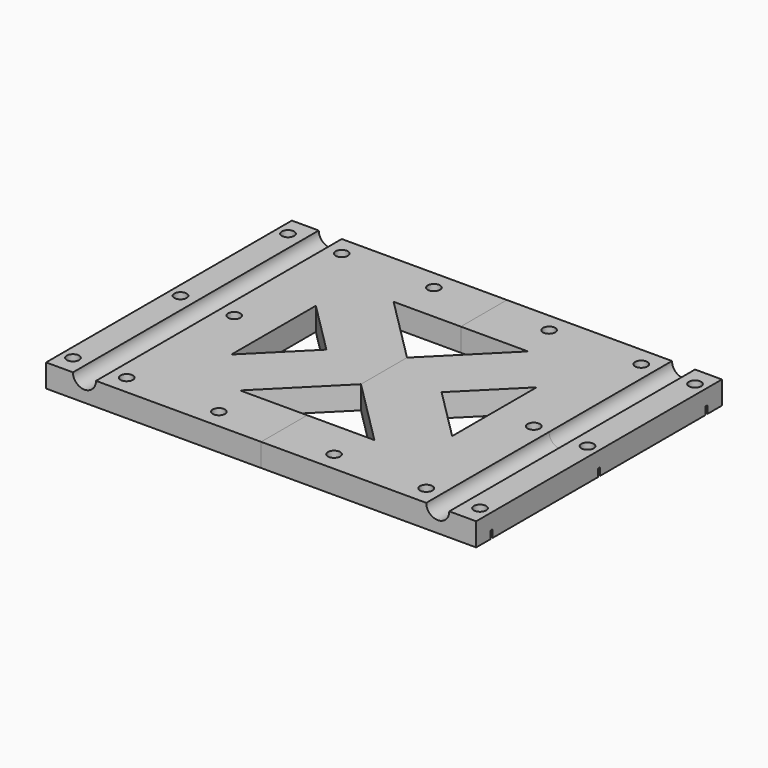
from build123d import *

# Parameters (mm, degrees)
SKETCH_R          = 1.6
PAD_DEPTH         = 6
SKETCH001_R       = 3
POCKET_DEPTH      = 40.001
POCKET_DEPTH_BACK = -40.001
POCKET001_DEPTH   = 2


with BuildPart() as toolbody:
    # Sketch → Pad (new body)
    with BuildSketch(Plane.XY):
        Polygon((0, 40), (46, 40), (56, 40), (56, -40), (46, -40), (0, -40), (0, -25), (17.5, -25), (0, -7.5), (0, 7.5), (17.5, 25), (0, 25), align=None)
        with Locations((53, 0)):
            Circle(SKETCH_R, mode=Mode.SUBTRACT)
        with Locations((53, 35)):
            Circle(SKETCH_R, mode=Mode.SUBTRACT)
        with Locations((53, -35)):
            Circle(SKETCH_R, mode=Mode.SUBTRACT)
        with Locations((39, 35)):
            Circle(SKETCH_R, mode=Mode.SUBTRACT)
        with Locations((39, 0)):
            Circle(SKETCH_R, mode=Mode.SUBTRACT)
        with Locations((39, -35)):
            Circle(SKETCH_R, mode=Mode.SUBTRACT)
        with Locations((15, 35)):
            Circle(SKETCH_R, mode=Mode.SUBTRACT)
        with Locations((15, -35)):
            Circle(SKETCH_R, mode=Mode.SUBTRACT)
        Polygon((15, 0), (28.75, 13.75), (28.75, -13.75), align=None, mode=Mode.SUBTRACT)
    extrude(amount=-PAD_DEPTH)

    # Sketch001 → Pocket (cut, two sides)
    with BuildSketch(Plane.XZ) as pocket_sk:
        with Locations((46, 0)):
            Circle(SKETCH001_R)
    extrude(amount=-POCKET_DEPTH, mode=Mode.SUBTRACT)
    extrude(pocket_sk.sketch, amount=-POCKET_DEPTH_BACK, mode=Mode.SUBTRACT)

    # Sketch002 (on DatumPlane) → Pocket001 (cut)
    with BuildSketch(Plane.XY.offset(-6)):
        Polygon((16.587713, 32.25), (18.175426, 35), (16.587713, 37.75), (13.412287, 37.75), (11.824574, 35), (13.412287, 32.25), align=None)
        Polygon((40.587713, 32.25), (42.175426, 35), (40.587713, 37.75), (37.412287, 37.75), (35.824574, 35), (37.412287, 32.25), align=None)
        Polygon((54.587713, 32.25), (56.175426, 35), (54.587713, 37.75), (51.412287, 37.75), (49.824574, 35), (51.412287, 32.25), align=None)
        Polygon((54.587713, -2.75), (56.175426, 0), (54.587713, 2.75), (51.412287, 2.75), (49.824574, 0), (51.412287, -2.75), align=None)
        Polygon((40.587713, -2.75), (42.175426, 0), (40.587713, 2.75), (37.412287, 2.75), (35.824574, 0), (37.412287, -2.75), align=None)
        Polygon((54.587713, -37.75), (56.175426, -35), (54.587713, -32.25), (51.412287, -32.25), (49.824574, -35), (51.412287, -37.75), align=None)
        Polygon((40.587713, -37.75), (42.175426, -35), (40.587713, -32.25), (37.412287, -32.25), (35.824574, -35), (37.412287, -37.75), align=None)
        Polygon((16.587713, -37.75), (18.175426, -35), (16.587713, -32.25), (13.412287, -32.25), (11.824574, -35), (13.412287, -37.75), align=None)
    extrude(amount=POCKET001_DEPTH, mode=Mode.SUBTRACT)


with BuildPart() as toolfusion:
    # Part__Mirroring: instance of ToolBody
    add(toolbody.part.mirror(Plane(origin=(0, 0, 0), x_dir=(0, -1, 0), z_dir=(1, 0, 0))))

    # Fusion: union ToolBody
    add(toolbody.part)


solid = toolfusion.part
